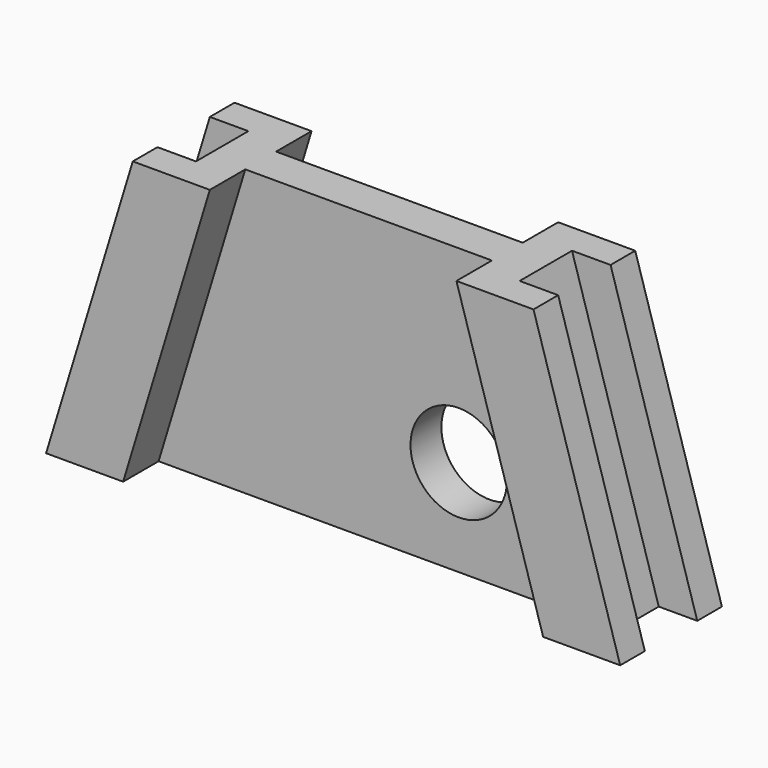
from build123d import *

# Parameters (mm, degrees)
SKETCH_R     = 2.5
POCKET_DEPTH = 4.301


with BuildPart() as part:
    # CopySketch002 → AdditiveLoft section 0
    with BuildSketch(Plane.XY.offset(14.8)):
        Polygon((-10.399994, -3.3), (-6.399994, -3.3), (-6.399994, -1), (6.399994, -1), (6.399994, -3.3), (10.399994, -3.3), (10.400006, -1.7), (8.400006, -1.7), (8.400006, 1.7), (10.400006, 1.7), (10.400006, 3.3), (6.400006, 3.3), (6.400006, 1), (-6.399994, 1), (-6.399994, 3.3), (-10.399994, 3.3), (-10.399994, 1.7), (-8.399994, 1.7), (-8.399994, -1.7), (-10.399994, -1.7), align=None)
    # Sketch001 (on Plane) → AdditiveLoft section 1
    with BuildSketch(Plane.XY):
        Polygon((-14.899994, -3.3), (-10.899994, -3.3), (-10.899994, -1), (10.899994, -1), (10.899994, -3.3), (14.899994, -3.3), (14.900006, -1.7), (12.900006, -1.7), (12.900006, 1.7), (14.900006, 1.7), (14.900006, 3.3), (10.900006, 3.3), (10.900006, 1), (-10.899994, 1), (-10.899994, 3.3), (-14.899994, 3.3), (-14.899994, 1.7), (-12.899994, 1.7), (-12.899994, -1.7), (-14.899994, -1.7), align=None)
    loft()

    # Sketch (on Face15 of AdditiveLoft) → Pocket (cut, through all)
    with BuildSketch(Plane(origin=(6e-06, 1, 6.758382), x_dir=(0, 0, 1), z_dir=(0, 1, 0))):
        with Locations((-1.758382, 4.677874)):
            Circle(SKETCH_R)
    extrude(amount=-POCKET_DEPTH, mode=Mode.SUBTRACT)


solid = part.part
